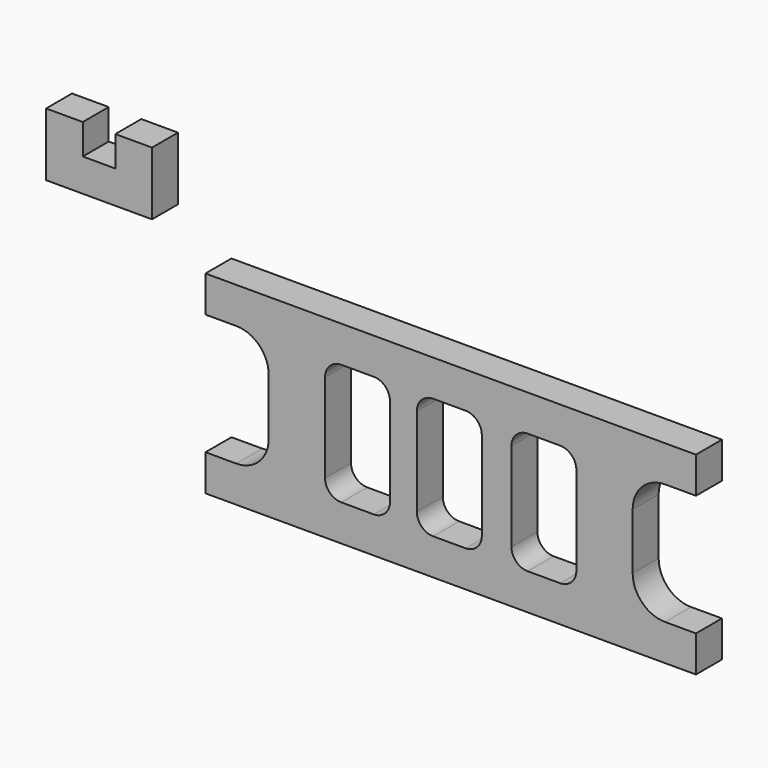
from build123d import *

# Parameters (mm, degrees)
F1_DEPTH = 25.4


with BuildPart() as f1:
    # F0 (on Front) → F1 (new body)
    with BuildSketch(Plane.XZ):
        Polygon((-25.47377, 0), (-25.47377, 23.754776), (-54.169539, 23.754776), (-54.169539, -25.655159), (28.69577, -25.655159), (28.69577, 23.754776), (0, 23.754776), (0, 0), align=None)
        with BuildLine():
            Line((454.16308, -49.324658), (70.494256, -49.324658))
            Line((70.494256, -49.324658), (70.494256, -77.6552))
            Line((70.494256, -77.6552), (94.586933, -77.6552))
            ThreePointArc((94.586933, -77.6552), (112.547445, -85.094688), (119.986933, -103.0552))
            Line((119.986933, -103.0552), (119.986933, -147.012619))
            ThreePointArc((119.986933, -147.012619), (112.547445, -164.973131), (94.586933, -172.412619))
            Line((94.586933, -172.412619), (70.494256, -172.412619))
            Line((70.494256, -172.412619), (70.494256, -200.746834))
            Line((70.494256, -200.746834), (454.16308, -200.746834))
            Line((454.16308, -200.746834), (454.16308, -172.412619))
            Line((454.16308, -172.412619), (430.070403, -172.412619))
            ThreePointArc((430.070403, -172.412619), (412.10989, -164.973131), (404.670403, -147.012619))
            Line((404.670403, -147.012619), (404.670403, -103.0552))
            ThreePointArc((404.670403, -103.0552), (412.10989, -85.094688), (430.070403, -77.6552))
            Line((430.070403, -77.6552), (454.16308, -77.6552))
            Line((454.16308, -77.6552), (454.16308, -49.324658))
        make_face()
        with BuildLine():
            ThreePointArc((164.038343, -90.3552), (167.758087, -81.374944), (176.738343, -77.6552))
            Line((176.738343, -77.6552), (202.138343, -77.6552))
            ThreePointArc((202.138343, -77.6552), (211.1186, -81.374944), (214.838343, -90.3552))
            Line((214.838343, -90.3552), (214.838343, -159.712619))
            ThreePointArc((214.838343, -159.712619), (211.1186, -168.692875), (202.138343, -172.412619))
            Line((202.138343, -172.412619), (176.738343, -172.412619))
            ThreePointArc((176.738343, -172.412619), (167.758087, -168.692875), (164.038343, -159.712619))
            Line((164.038343, -159.712619), (164.038343, -90.3552))
        make_face(mode=Mode.SUBTRACT)
        with BuildLine():
            ThreePointArc((235.872973, -90.355209), (239.592716, -81.374953), (248.572973, -77.655209))
            Line((248.572973, -77.655209), (273.972973, -77.655209))
            ThreePointArc((273.972973, -77.655209), (282.953229, -81.374953), (286.672973, -90.355209))
            Line((286.672973, -90.355209), (286.672973, -159.712627))
            ThreePointArc((286.672973, -159.712627), (282.953229, -168.692883), (273.972973, -172.412627))
            Line((273.972973, -172.412627), (248.572973, -172.412627))
            ThreePointArc((248.572973, -172.412627), (239.592716, -168.692883), (235.872973, -159.712627))
            Line((235.872973, -159.712627), (235.872973, -90.355209))
        make_face(mode=Mode.SUBTRACT)
        with BuildLine():
            ThreePointArc((309.818992, -90.355209), (313.538736, -81.374953), (322.518992, -77.655209))
            Line((322.518992, -77.655209), (347.918992, -77.655209))
            ThreePointArc((347.918992, -77.655209), (356.899248, -81.374953), (360.618992, -90.355209))
            Line((360.618992, -90.355209), (360.618992, -159.712627))
            ThreePointArc((360.618992, -159.712627), (356.899248, -168.692883), (347.918992, -172.412627))
            Line((347.918992, -172.412627), (322.518992, -172.412627))
            ThreePointArc((322.518992, -172.412627), (313.538736, -168.692883), (309.818992, -159.712627))
            Line((309.818992, -159.712627), (309.818992, -90.355209))
        make_face(mode=Mode.SUBTRACT)
    extrude(amount=F1_DEPTH)


solid = f1.part
